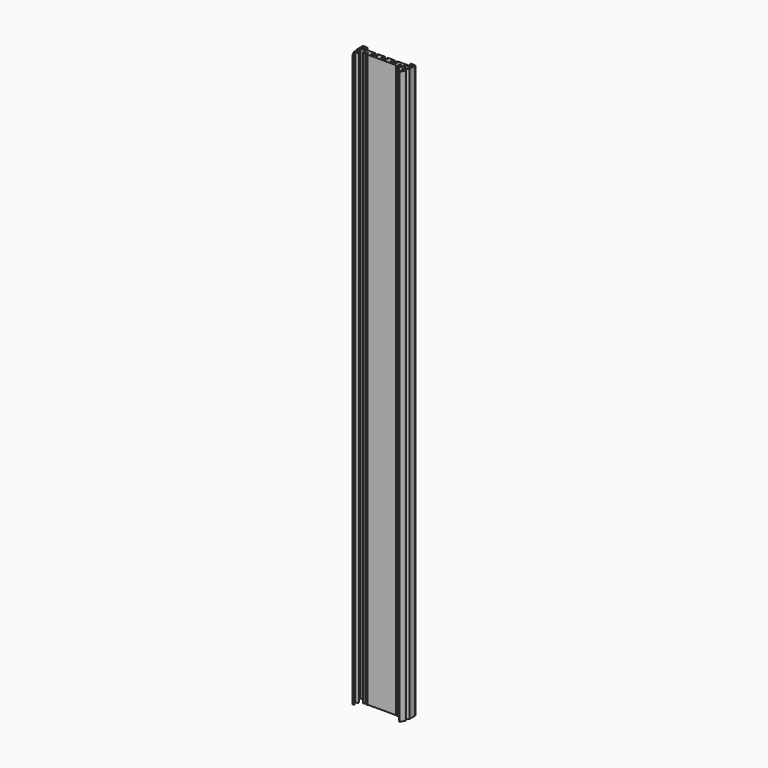
from build123d import *

# Parameters (mm, degrees)
F1_DEPTH = 650


with BuildPart() as f1:
    # F0 (on Top) → F1 (new body)
    with BuildSketch(Plane.XY):
        with BuildLine():
            Line((-16.172833, -2.607296), (16.172833, -2.607296))
            ThreePointArc((16.172833, -2.607296), (16.701406, -3.117236), (17.32476, -3.505642))
            Line((17.32476, -3.505642), (18.103784, -2.156334))
            ThreePointArc((18.103784, -2.156334), (18.853784, 0.642704), (19.603784, -2.156334))
            Line((19.603784, -2.156334), (20.382808, -3.505642))
            ThreePointArc((20.382808, -3.505642), (21.820397, -2.2145), (22.353784, -0.357296))
            Line((22.353784, -0.357296), (22.353784, 2.642704))
            Line((22.353784, 2.642704), (28.65, 2.642704))
            Line((28.65, 2.642704), (28.65, -0.448107))
            Line((28.65, -0.448107), (24.995488, -4.102619))
            ThreePointArc((24.995488, -4.102619), (24.778715, -5.192409), (25.702595, -5.809726))
            Line((25.702595, -5.809726), (27.714112, -5.809726))
            Line((27.714112, -5.809726), (25.365345, -10.069868))
            Line((25.365345, -10.069868), (26.54757, -10.72167))
            Line((26.54757, -10.72167), (29.182471, -5.942542))
            ThreePointArc((29.182471, -5.942542), (29.1678, -4.951207), (28.30675, -4.459726))
            Line((28.30675, -4.459726), (27.754677, -4.459726))
            ThreePointArc((27.754677, -4.459726), (27.292737, -4.151068), (27.401123, -3.606173))
            Line((27.401123, -3.606173), (29.707107, -1.300189))
            ThreePointArc((29.707107, -1.300189), (29.92388, -0.975766), (30, -0.593082))
            Line((30, -0.593082), (30, 6.992704))
            ThreePointArc((30, 6.992704), (29.707107, 7.699811), (29, 7.992704))
            Line((29, 7.992704), (24.5, 7.992704))
            Line((24.5, 7.992704), (24.5, 6.642704))
            Line((24.5, 6.642704), (28.65, 6.642704))
            Line((28.65, 6.642704), (28.65, 3.992704))
            Line((28.65, 3.992704), (12.5, 3.992704))
            Line((12.5, 3.992704), (12.5, 2.742704))
            Line((12.5, 2.742704), (14, 2.742704))
            Line((14, 2.742704), (14.125, -1.257296))
            Line((14.125, -1.257296), (7.875, -1.257296))
            Line((7.875, -1.257296), (8, 2.742704))
            Line((8, 2.742704), (9.5, 2.742704))
            Line((9.5, 2.742704), (9.5, 3.992704))
            Line((9.5, 3.992704), (1.5, 3.992704))
            Line((1.5, 3.992704), (1.5, 2.742704))
            Line((1.5, 2.742704), (3, 2.742704))
            Line((3, 2.742704), (3.125, -1.257296))
            Line((3.125, -1.257296), (-3.125, -1.257296))
            Line((-3.125, -1.257296), (-3, 2.742704))
            Line((-3, 2.742704), (-1.5, 2.742704))
            Line((-1.5, 2.742704), (-1.5, 3.992704))
            Line((-1.5, 3.992704), (-9.5, 3.992704))
            Line((-9.5, 3.992704), (-9.5, 2.742704))
            Line((-9.5, 2.742704), (-8, 2.742704))
            Line((-8, 2.742704), (-7.875, -1.257296))
            Line((-7.875, -1.257296), (-14.125, -1.257296))
            Line((-14.125, -1.257296), (-14, 2.742704))
            Line((-14, 2.742704), (-12.5, 2.742704))
            Line((-12.5, 2.742704), (-12.5, 3.992704))
            Line((-12.5, 3.992704), (-28.65, 3.992704))
            Line((-28.65, 3.992704), (-28.65, 6.642704))
            Line((-28.65, 6.642704), (-24.5, 6.642704))
            Line((-24.5, 6.642704), (-24.5, 7.992704))
            Line((-24.5, 7.992704), (-29, 7.992704))
            ThreePointArc((-29, 7.992704), (-29.707107, 7.699811), (-30, 6.992704))
            Line((-30, 6.992704), (-30, -0.593082))
            ThreePointArc((-30, -0.593082), (-29.92388, -0.975766), (-29.707107, -1.300189))
            Line((-29.707107, -1.300189), (-27.401123, -3.606173))
            ThreePointArc((-27.401123, -3.606173), (-27.292737, -4.151068), (-27.754677, -4.459726))
            Line((-27.754677, -4.459726), (-28.30675, -4.459726))
            ThreePointArc((-28.30675, -4.459726), (-29.1678, -4.951207), (-29.182471, -5.942542))
            Line((-29.182471, -5.942542), (-26.54757, -10.72167))
            Line((-26.54757, -10.72167), (-25.365345, -10.069868))
            Line((-25.365345, -10.069868), (-27.714112, -5.809726))
            Line((-27.714112, -5.809726), (-25.702595, -5.809726))
            ThreePointArc((-25.702595, -5.809726), (-24.778715, -5.192409), (-24.995488, -4.102619))
            Line((-24.995488, -4.102619), (-28.65, -0.448107))
            Line((-28.65, -0.448107), (-28.65, 2.642704))
            Line((-28.65, 2.642704), (-22.353784, 2.642704))
            Line((-22.353784, 2.642704), (-22.353784, -0.357296))
            ThreePointArc((-22.353784, -0.357296), (-21.820397, -2.2145), (-20.382808, -3.505642))
            Line((-20.382808, -3.505642), (-19.603784, -2.156334))
            ThreePointArc((-19.603784, -2.156334), (-18.853784, 0.642704), (-18.103784, -2.156334))
            Line((-18.103784, -2.156334), (-17.32476, -3.505642))
            ThreePointArc((-17.32476, -3.505642), (-16.701406, -3.117236), (-16.172833, -2.607296))
        make_face()
    extrude(amount=F1_DEPTH)


solid = f1.part
